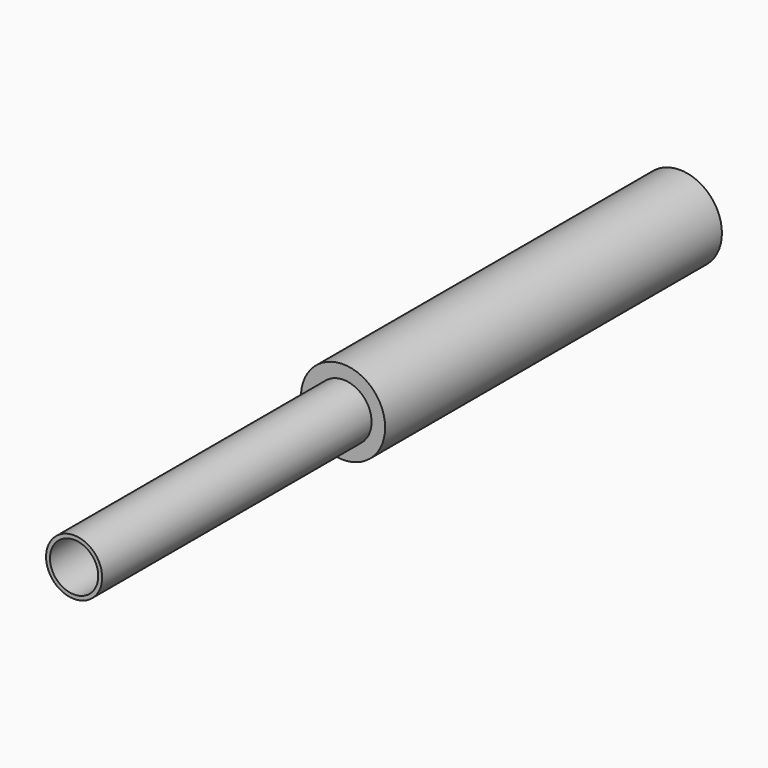
from build123d import *

# Parameters (mm, degrees)
F0_R     = 9.525
F1_DEPTH = 95.25
F2_R     = 6.35
F3_DEPTH = 76.2
F4_R     = 5.461
F5_DEPTH = 12.7


with BuildPart() as f1:
    # F0 (on Front) → F1 (new body)
    with BuildSketch(Plane.XZ):
        with Locations((-0.102708, -0.103876)):
            Circle(F0_R)
    extrude(amount=-F1_DEPTH)

    # F2 (on face) → F3 (join)
    with BuildSketch(Plane.XZ):
        Circle(F2_R)
    extrude(amount=F3_DEPTH)

    # F4 (on face) → F5 (cut)
    with BuildSketch(Plane.XZ.offset(76.2)):
        Circle(F4_R)
    extrude(amount=-F5_DEPTH, mode=Mode.SUBTRACT)


solid = f1.part
